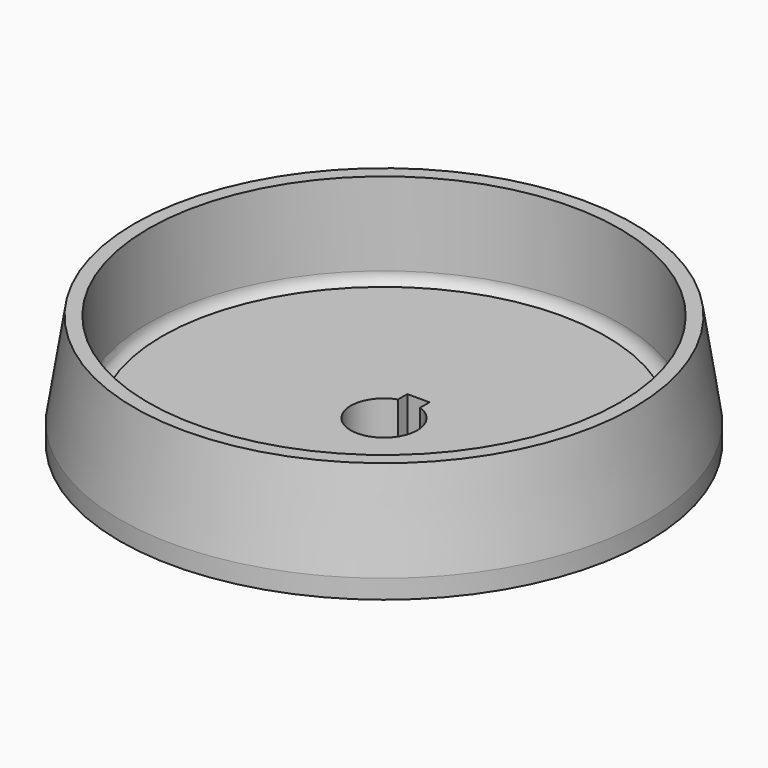
from build123d import *

# Parameters (mm, degrees)
F2_R     = 800
F2_R_2   = 120
F3_DEPTH = 25
F4_W     = 80
F4_H     = 70
F5_DEPTH = 395.001


with BuildPart() as f1:
    # F0 (on Front) → F1 (revolve)
    with BuildSketch(Plane.XZ):
        with BuildLine():
            Line((120, 370), (120, 0))
            Line((120, 0), (270, 0))
            Line((270, 0), (270, 83.724369))
            Line((270, 83.724369), (200, 83.724369))
            Line((200, 83.724369), (200, 233.724369))
            Line((200, 233.724369), (270, 233.724369))
            Line((270, 233.724369), (270, 313.724369))
            Line((270, 313.724369), (952.792001, 313.724369))
            Line((952.792001, 313.724369), (952.792001, 382.131195))
            Line((952.792001, 382.131195), (900, 720))
            Line((900, 720), (850, 720))
            Line((850, 720), (850, 420))
            ThreePointArc((850, 420), (835.355339, 384.644661), (800, 370))
            Line((800, 370), (120, 370))
        make_face()
    revolve(axis=Axis((0, 0, -17.114428), (0, 0, -1)))

    # F2 (on face) → F3 (join)
    with BuildSketch(Plane.XY.offset(370)):
        Circle(F2_R)
        Circle(F2_R_2, mode=Mode.SUBTRACT)
    extrude(amount=F3_DEPTH)

    # F4 (on face) → F5 (cut, through all)
    with BuildSketch(Plane.XY.offset(395)):
        with Locations((0, 120)):
            Rectangle(F4_W, F4_H)
    extrude(amount=-F5_DEPTH, mode=Mode.SUBTRACT)


solid = f1.part
